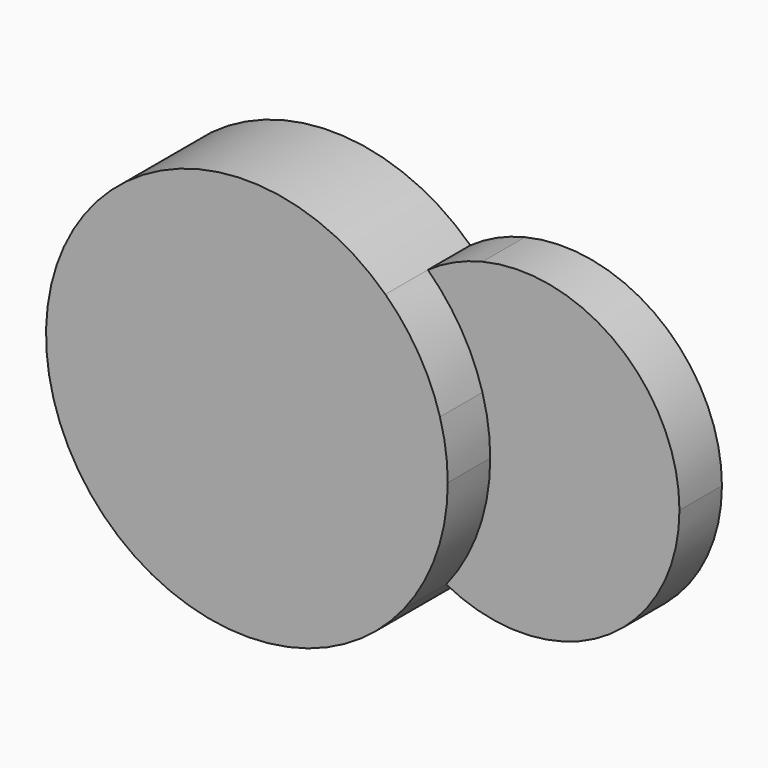
from build123d import *

# Parameters (mm, degrees)
F1_DEPTH = 25.4
F2_DEPTH = 12.7


with BuildPart() as f1:
    # F0 (on Front) → F1 (new body)
    with BuildSketch(Plane.XZ):
        with BuildLine():
            Line((-27.690475612, -43.1372077789), (-33.1402948428, -18.7970970559))
            ThreePointArc((-33.1402948428, -18.7970970559), (-37.1794475536, -8.3245828491), (-37.9917172133, 2.8704395462))
            Line((-37.9917172133, 2.8704395462), (-47.11450226, 43.6148365127))
            ThreePointArc((-47.11450226, 43.6148365127), (-102.0816308133, -14.2430273655), (-27.690475612, -43.1372077789))
        make_face()
        with BuildLine():
            ThreePointArc((-37.9917172133, 2.8704395462), (-33.1740860433, 18.7373961689), (-22.0724842868, 31.0550388409))
            ThreePointArc((-22.0724842868, 31.0550388409), (-33.6577109608, 39.2007223098), (-47.11450226, 43.6148365127))
            Line((-47.11450226, 43.6148365127), (-37.9917172133, 2.8704395462))
        make_face()
        with BuildLine():
            ThreePointArc((-33.1402948428, -18.7970970559), (-26.4850748145, -27.388881176), (-17.6748882748, -33.7521602934))
            ThreePointArc((-17.6748882748, -33.7521602934), (-9.8591417679, -19.6446077584), (-7.1522186187, -3.7455040399))
            ThreePointArc((-7.1522186187, -3.7455040399), (-7.6200674135, 2.9430553609), (-9.01450226, 9.5013524579))
            ThreePointArc((-9.01450226, 9.5013524579), (-14.105152254, 21.1495932769), (-22.0724842868, 31.0550388409))
            ThreePointArc((-22.0724842868, 31.0550388409), (-33.1740860433, 18.7373961689), (-37.9917172133, 2.8704395462))
            Line((-37.9917172133, 2.8704395462), (-33.1402948428, -18.7970970559))
        make_face()
        with BuildLine():
            ThreePointArc((-27.690475612, -43.1372077789), (-22.3458139479, -38.8041847031), (-17.6748882748, -33.7521602934))
            ThreePointArc((-17.6748882748, -33.7521602934), (-26.4850748145, -27.388881176), (-33.1402948428, -18.7970970559))
            Line((-33.1402948428, -18.7970970559), (-27.690475612, -43.1372077789))
        make_face()
        with BuildLine():
            ThreePointArc((-37.9917172133, 2.8704395462), (-37.1794475536, -8.3245828491), (-33.1402948428, -18.7970970559))
            Line((-33.1402948428, -18.7970970559), (-37.9917172133, 2.8704395462))
        make_face()
    extrude(amount=F1_DEPTH)

    # F0 (on Front) → F2 (join)
    with BuildSketch(Plane.XZ):
        with BuildLine():
            ThreePointArc((-33.1402948428, -18.7970970559), (-26.4850748145, -27.388881176), (-17.6748882748, -33.7521602934))
            ThreePointArc((-17.6748882748, -33.7521602934), (-9.8591417679, -19.6446077584), (-7.1522186187, -3.7455040399))
            ThreePointArc((-7.1522186187, -3.7455040399), (-7.6200674135, 2.9430553609), (-9.01450226, 9.5013524579))
            ThreePointArc((-9.01450226, 9.5013524579), (-14.105152254, 21.1495932769), (-22.0724842868, 31.0550388409))
            ThreePointArc((-22.0724842868, 31.0550388409), (-33.1740860433, 18.7373961689), (-37.9917172133, 2.8704395462))
            Line((-37.9917172133, 2.8704395462), (-33.1402948428, -18.7970970559))
        make_face()
        with BuildLine():
            Line((-9.01450226, 9.5013524579), (-9.01450226, 37.0182218509))
            ThreePointArc((-9.01450226, 37.0182218509), (-15.8268781205, 34.6571771637), (-22.0724842868, 31.0550388409))
            ThreePointArc((-22.0724842868, 31.0550388409), (-14.105152254, 21.1495932769), (-9.01450226, 9.5013524579))
        make_face()
        with BuildLine():
            ThreePointArc((-17.6748882748, -33.7521602934), (19.7255767562, -32.5961902933), (38.1, 0))
            ThreePointArc((38.1, 0), (23.5388770324, 29.9588262129), (-9.01450226, 37.0182218509))
            Line((-9.01450226, 37.0182218509), (-9.01450226, 9.5013524579))
            ThreePointArc((-9.01450226, 9.5013524579), (-7.6200674135, 2.9430553609), (-7.1522186187, -3.7455040399))
            ThreePointArc((-7.1522186187, -3.7455040399), (-9.8591417679, -19.6446077584), (-17.6748882748, -33.7521602934))
        make_face()
        with BuildLine():
            ThreePointArc((-37.9917172133, 2.8704395462), (-37.1794475536, -8.3245828491), (-33.1402948428, -18.7970970559))
            Line((-33.1402948428, -18.7970970559), (-37.9917172133, 2.8704395462))
        make_face()
    extrude(amount=F2_DEPTH)


solid = f1.part
